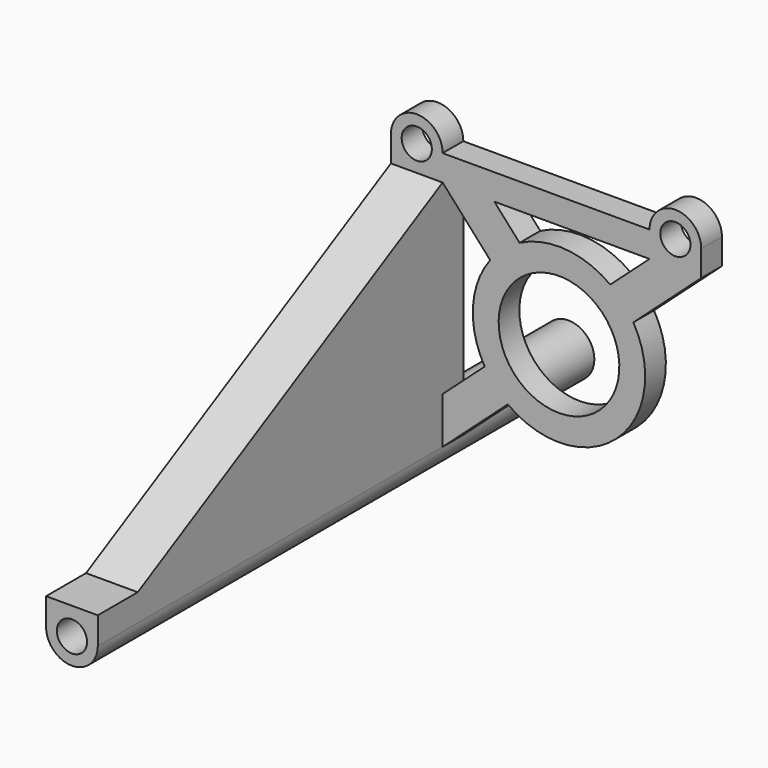
from build123d import *

# Parameters (mm, degrees)
F0_R          = 3
F0_R_2        = 1.75
F1_DEPTH      = 16
F1_DEPTH_BACK = 2.99974
F2_R          = 1.75
F3_DEPTH      = 3
F5_DEPTH      = 6
F7_DEPTH      = 50
F10_DEPTH     = 6
F8_R          = 1.75
F11_DEPTH     = 72.00074
F12_R         = 1.75
F13_DEPTH     = 2.99974
F14_W         = 3
F14_H         = 3
F15_DEPTH     = 24
F17_DEPTH     = 3
F18_R         = 10
F18_R_2       = 7
F19_DEPTH     = 3
F21_DEPTH     = 3
F22_R         = 7
F23_DEPTH     = 25.4


with BuildPart() as f1:
    # F0 (on Front) → F1 (new body, two sides)
    with BuildSketch(Plane.XZ) as f1_sk:
        Circle(F0_R)
        Circle(F0_R_2, mode=Mode.SUBTRACT)
    extrude(amount=F1_DEPTH)
    extrude(f1_sk.sketch, amount=-F1_DEPTH_BACK)

    # F2 (on face) → F3 (join)
    with BuildSketch(Plane.XZ.offset(16)):
        with BuildLine():
            Line((-3, 30), (-3, 0))
            ThreePointArc((-3, 0), (0, -3), (3, 0))
            Line((3, 0), (3, 30))
            ThreePointArc((3, 30), (0, 33), (-3, 30))
        make_face()
        with Locations((0, 30)):
            Circle(F2_R, mode=Mode.SUBTRACT)
    extrude(amount=F3_DEPTH)

    # F4 (on face) → F5 (join, through all)
    with BuildSketch(Plane(origin=(-3, 0, 0), x_dir=(0, -1, 0), z_dir=(-1, 0, 0))):
        Polygon((69, 0), (19, 27), (19, 0), align=None)
    extrude(amount=-F5_DEPTH)

    # F6 (on face) → F7 (join, through all)
    with BuildSketch(Plane.XZ.offset(19)):
        with BuildLine():
            Line((3, 0), (-3, 0))
            ThreePointArc((-3, 0), (0, -3), (3, 0))
        make_face()
    extrude(amount=F7_DEPTH)

    # F9 (on face) → F10 (join)
    with BuildSketch(Plane.XZ.offset(69)):
        with BuildLine():
            Line((-3, 3.128744429), (-3, 0))
            ThreePointArc((-3, 0), (0, -3), (3, 0))
            Line((3, 0), (3, 3.128744429))
            Line((3, 3.128744429), (-3, 3.128744429))
        make_face()
    extrude(amount=-F10_DEPTH)

    # F8 (on face) → F11 (cut, through all)
    with BuildSketch(Plane(origin=(0, 2.99974, 0), x_dir=(-1, 0, 0), z_dir=(0, 1, 0))):
        Circle(F8_R)
    extrude(amount=-F11_DEPTH, mode=Mode.SUBTRACT)



with BuildPart() as f13:
    # F12 (on face) → F13 (new body)
    with BuildSketch(Plane.XZ.offset(19)):
        with BuildLine():
            Line((33, 27), (33, 30))
            ThreePointArc((33, 30), (30, 33), (27, 30))
            Line((27, 30), (27, 27))
            Line((27, 27), (33, 27))
        make_face()
        with Locations((30, 30)):
            Circle(F12_R, mode=Mode.SUBTRACT)
    extrude(amount=-F13_DEPTH)


with BuildPart() as f1_1:
    add(f1.part)

    add(f13.part)  # F15 merges F13
    # F14 (on face) → F15 (join, through all)
    with BuildSketch(Plane.YZ.offset(3)):
        with Locations((-17.5, 28.5)):
            Rectangle(F14_W, F14_H)
    extrude(amount=F15_DEPTH)

    # F16 (on face) → F17 (join, through all)
    with BuildSketch(Plane(origin=(0, -16, 0), x_dir=(-1, 0, 0), z_dir=(0, 1, 0))):
        Polygon((-27, 27), (-33, 27), (-3, 0), (-3, 5.4), align=None)
    extrude(amount=-F17_DEPTH)

    # F18 (on face) → F19 (join, through all)
    with BuildSketch(Plane(origin=(0, -16, 0), x_dir=(-1, 0, 0), z_dir=(0, 1, 0))):
        with Locations((-16.5, 14.85)):
            Circle(F18_R)
        with Locations((-16.5, 14.85)):
            Circle(F18_R_2, mode=Mode.SUBTRACT)
    extrude(amount=-F19_DEPTH)

    # F20 (on face) → F21 (join, through all)
    with BuildSketch(Plane(origin=(0, -16, 0), x_dir=(-1, 0, 0), z_dir=(0, 1, 0))):
        with BuildLine():
            Line((-8.5159330462, 20.8711855043), (-3, 27))
            Line((-3, 27), (-8.99948, 27))
            Line((-8.99948, 27), (-11.9295075041, 23.7444138843))
            ThreePointArc((-11.9295075041, 23.7444138843), (-10.0604269493, 22.5006142842), (-8.5159330462, 20.8711855043))
        make_face()
    extrude(amount=-F21_DEPTH)

    # F22 (on face) → F23 (cut)
    with BuildSketch(Plane(origin=(0, -16, 0), x_dir=(-1, 0, 0), z_dir=(0, 1, 0))):
        with Locations((-16.5, 14.85)):
            Circle(F22_R)
    extrude(amount=-F23_DEPTH, mode=Mode.SUBTRACT)


solid = f1_1.part
